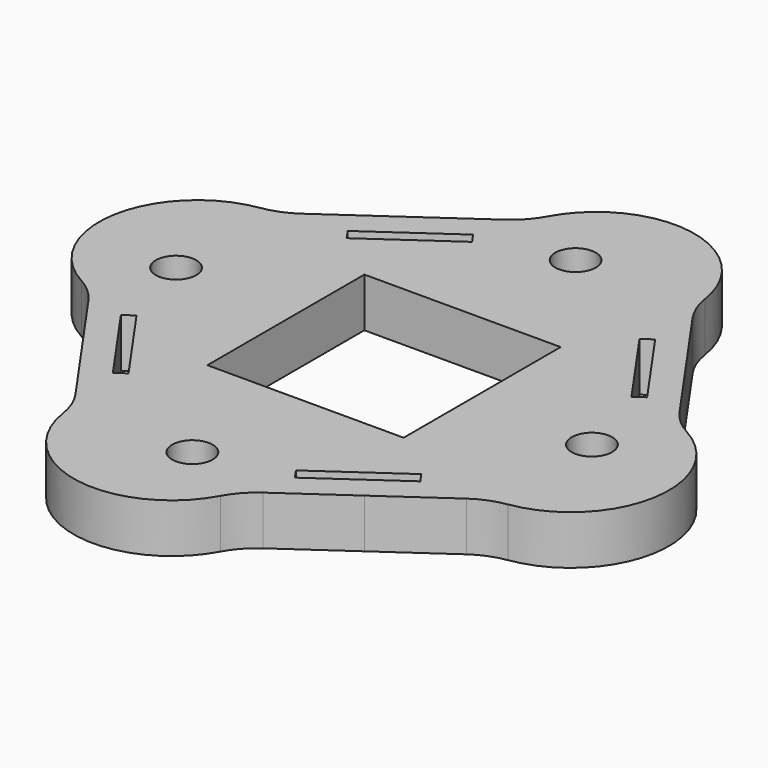
from build123d import *

# Parameters (mm, degrees)
PAD006_DEPTH          = 4
POLARPATTERN002_COUNT = 4
SKETCH012_W           = 16
SKETCH012_H           = 16
POCKET001_DEPTH       = 4.001
SKETCH018_R           = 1.65
HOLE_DEPTH            = 12.001
POCKET005_DEPTH       = 149.7520027338
POLARPATTERN_COUNT    = 4


with BuildPart() as part:
    # Sketch → Pad006 (new body)
    with BuildSketch(Plane.XY):
        with BuildLine():
            ThreePointArc((18.9209111487, -11.036007045), (25.6050015783, -4.5148526193), (21.5543772962, 3.8991216402))
            ThreePointArc((19.510343337, 5.7262546507), (20.4266011455, 4.694374188), (21.5543772962, 3.8991216402))
            Line((19.510343337, 5.7262546507), (15.7820965007, 11.0507429386))
            Line((0, 0), (15.7820965007, 11.0507429386))
            Line((0, 0), (11.0507429386, -15.7820965007))
            Line((11.0507429386, -15.7820965007), (16.3752312264, -12.0538496644))
            ThreePointArc((18.9209111487, -11.036007045), (17.5891558316, -11.3975778351), (16.3752312264, -12.0538496644))
        make_face()
    pad006 = extrude(amount=-PAD006_DEPTH)

    # PolarPattern002: Pad006 ×4 about axis
    polarpattern002_axis = Axis((0, 0, 0), (0, 0, 1))
    for i in range(1, POLARPATTERN002_COUNT):
        add(pad006.rotate(polarpattern002_axis, i * 360 / POLARPATTERN002_COUNT))

    # Sketch012 → Pocket001 (cut, through all)
    with BuildSketch(Plane.XY):
        Rectangle(SKETCH012_W, SKETCH012_H)
    extrude(amount=-POCKET001_DEPTH, mode=Mode.SUBTRACT)

    # Sketch018 → Hole (cut, through all)
    with BuildSketch(Plane.XY.offset(8)):
        with Locations((1.2556165274, 17.9561529047)):
            Circle(SKETCH018_R)
        with Locations((-1.2556165274, -17.9561529047)):
            Circle(SKETCH018_R)
        with Locations((-17.9561529047, 1.2556165274)):
            Circle(SKETCH018_R)
        with Locations((17.9561529047, -1.2556165274)):
            Circle(SKETCH018_R)
    extrude(amount=-HOLE_DEPTH, mode=Mode.SUBTRACT)

    # Sketch021 → Pocket005 (cut, through all)
    with BuildSketch(Plane.XY):
        Polygon((11.2159688683, 12.0143126733), (12.0351209126, 12.5878891096), (16.6237324034, 6.0346727553), (15.8045803591, 5.461096319), align=None)
    pocket005 = extrude(amount=-POCKET005_DEPTH, mode=Mode.SUBTRACT)

    # PolarPattern: Pocket005 ×4 about axis
    polarpattern_axis = Axis((0, 0, 0), (0, 0, 1))
    for i in range(1, POLARPATTERN_COUNT):
        add(pocket005.rotate(polarpattern_axis, i * 360 / POLARPATTERN_COUNT), mode=Mode.SUBTRACT)


solid = part.part
